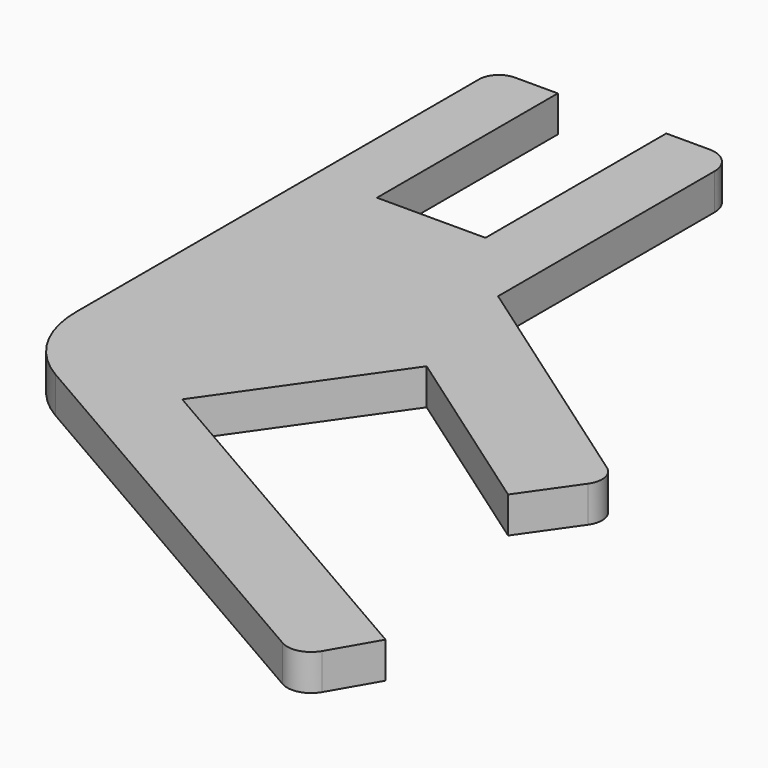
from build123d import *

# Parameters (mm, degrees)
PAD_DEPTH = 4


with BuildPart() as part:
    # Sketch → Pad (new body)
    with BuildSketch(Plane.XY):
        with BuildLine():
            Line((-10.75805, 41.603632), (-6, 41.603632))
            Line((-6, 41.603632), (-6, 16.603632))
            Line((-6, 16.603632), (6, 16.603632))
            Line((6, 16.603632), (6, 41.603632))
            Line((6, 41.603632), (10.75805, 41.603632))
            ThreePointArc((13.675637, 38.686046), (12.821096, 40.749091), (10.75805, 41.603632))
            Line((13.675637, 38.686046), (13.675637, 8.753459))
            Line((13.675637, 8.753459), (41.072293, -10.429886))
            ThreePointArc((41.659537, -13.76031), (42.055668, -11.973476), (41.072293, -10.429886))
            Line((41.659537, -13.76031), (37.519892, -19.672335))
            Line((37.519892, -19.672335), (17.041091, -5.332924))
            Line((17.041091, -5.332924), (4.422409, -23.354269))
            Line((4.422409, -23.354269), (46.213473, -47.482351))
            Line((46.213473, -47.482351), (43.278864, -52.565244))
            ThreePointArc((39.681503, -53.529154), (41.679816, -53.792237), (43.278864, -52.565244))
            Line((39.681503, -53.529154), (-7.047129, -26.550365))
            ThreePointArc((-12.952081, -16.322689), (-11.369854, -22.227641), (-7.047129, -26.550365))
            Line((-12.952081, -16.322689), (-12.952081, 39.409602))
            ThreePointArc((-10.75805, 41.603632), (-12.309464, 40.961015), (-12.952081, 39.409602))
        make_face()
    extrude(amount=PAD_DEPTH)


solid = part.part
